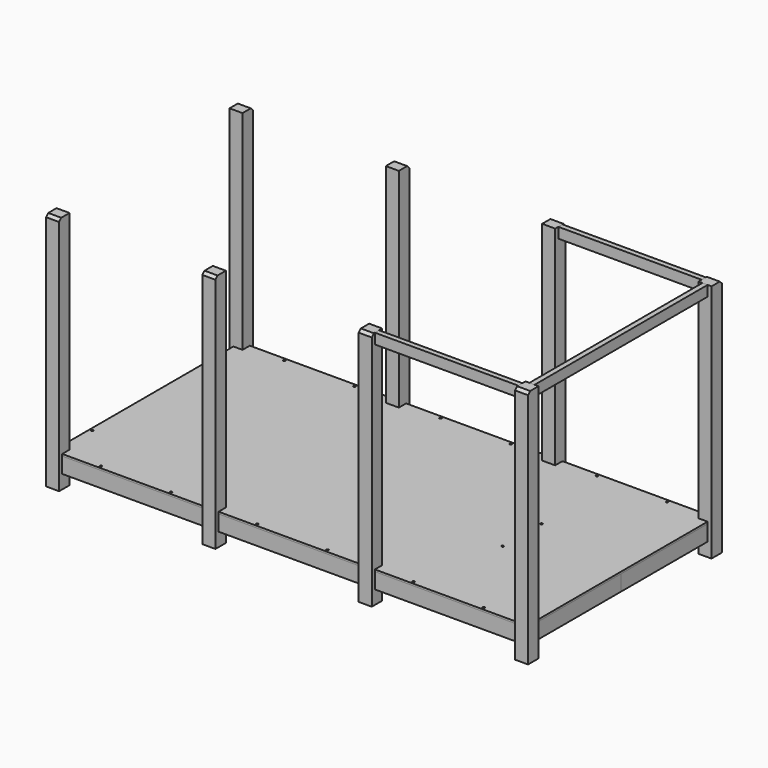
from build123d import *

# Parameters (mm, degrees)
F1_W           = 125
F1_H           = 2300
F2_DEPTH       = 62.5
F3_W           = 1375
F3_H           = 150
F4_W           = 1375
F4_H           = 150
F5_DEPTH       = 25
F7_W           = 50
F7_H           = 1037.5
F7_H_2         = 1075
F8_DEPTH       = 150
F10_W          = 1375
F10_H          = 87.5
F10_R          = 10.5
F11_DEPTH      = 19
F12_W          = 1375
F12_H          = 100
F13_DEPTH      = 25
F16_W          = 2075
F16_H          = 100
F17_DEPTH      = 25
F19_DEPTH      = 62.5
F19_DEPTH_BACK = 4562.501


with BuildPart() as f2:
    # F1 (on offset) → F2 (new body, symmetric)
    with BuildSketch(Plane.XZ.offset(1100)):
        with Locations((-2250, -198.653316)):
            Rectangle(F1_W, F1_H)
        with Locations((-750, -198.653316)):
            Rectangle(F1_W, F1_H)
        with Locations((750, -198.653316)):
            Rectangle(F1_W, F1_H)
        with Locations((2250, -198.653316)):
            Rectangle(F1_W, F1_H)
    extrude(amount=F2_DEPTH, both=True)


with BuildPart() as f5:
    # F3 (on offset) + F4 (on offset) → F5 (new body, symmetric)
    with BuildSketch(Plane.XZ.offset(1100)):
        with Locations((-1500, -1142.653316)):
            Rectangle(F3_W, F3_H)
    with BuildSketch(Plane.XZ.offset(1100)):
        with Locations((0, -1142.653316)):
            Rectangle(F4_W, F4_H)
        with Locations((1500, -1142.653316)):
            Rectangle(F4_W, F4_H)
    extrude(amount=F5_DEPTH, both=True)


with BuildPart() as f8:
    # F7 (on offset) → F8 (new body)
    with BuildSketch(Plane.XY.offset(-1067.653)):
        with Locations((-2250, -518.75)):
            Rectangle(F7_W, F7_H)
        with Locations((-1950, -537.5)):
            Rectangle(F7_W, F7_H_2)
        with Locations((-1650, -537.5)):
            Rectangle(F7_W, F7_H_2)
        with Locations((-1350, -537.5)):
            Rectangle(F7_W, F7_H_2)
        with Locations((-1050, -537.5)):
            Rectangle(F7_W, F7_H_2)
        with Locations((-750, -518.75)):
            Rectangle(F7_W, F7_H)
        with Locations((-450, -537.5)):
            Rectangle(F7_W, F7_H_2)
        with Locations((-150, -537.5)):
            Rectangle(F7_W, F7_H_2)
        with Locations((150, -537.5)):
            Rectangle(F7_W, F7_H_2)
        with Locations((450, -537.5)):
            Rectangle(F7_W, F7_H_2)
        with Locations((750, -518.75)):
            Rectangle(F7_W, F7_H)
        with Locations((1050, -537.5)):
            Rectangle(F7_W, F7_H_2)
        with Locations((1350, -537.5)):
            Rectangle(F7_W, F7_H_2)
        with Locations((1650, -537.5)):
            Rectangle(F7_W, F7_H_2)
        with Locations((1950, -537.5)):
            Rectangle(F7_W, F7_H_2)
        with Locations((2250, -518.75)):
            Rectangle(F7_W, F7_H)
    extrude(amount=-F8_DEPTH)


with BuildPart() as f9_1:
    # F9: instance of F2
    add(f2.part.mirror(Plane.XZ))


with BuildPart() as f9_2:
    # F9: instance of F5
    add(f5.part.mirror(Plane.XZ))


with BuildPart() as f9_3:
    # F9: instance of F8
    add(f8.part.mirror(Plane.XZ))


with BuildPart() as f11:
    # F10 (on offset) → F11 (new body)
    with BuildSketch(Plane.XY.offset(-1067.653)):
        with Locations((-1500, 1081.25)):
            Rectangle(F10_W, F10_H)
        with Locations((-1837.5, 1100)):
            Circle(F10_R, mode=Mode.SUBTRACT)
        with Locations((-1162.5, 1100)):
            Circle(F10_R, mode=Mode.SUBTRACT)
        with Locations((0, 1081.25)):
            Rectangle(F10_W, F10_H)
        with Locations((-337.5, 1100)):
            Circle(F10_R, mode=Mode.SUBTRACT)
        with Locations((337.5, 1100)):
            Circle(F10_R, mode=Mode.SUBTRACT)
        with Locations((1500, 1081.25)):
            Rectangle(F10_W, F10_H)
        with Locations((1162.5, 1100)):
            Circle(F10_R, mode=Mode.SUBTRACT)
        with Locations((1837.5, 1100)):
            Circle(F10_R, mode=Mode.SUBTRACT)
        Polygon((-2275, -1037.5), (-2187.5, -1037.5), (-812.5, -1037.5), (-687.5, -1037.5), (687.5, -1037.5), (812.5, -1037.5), (2187.5, -1037.5), (2275, -1037.5), (2275, 1037.5), (2187.5, 1037.5), (812.5, 1037.5), (687.5, 1037.5), (-687.5, 1037.5), (-812.5, 1037.5), (-2187.5, 1037.5), (-2275, 1037.5), align=None)
        with Locations((-2250, -687.5)):
            Circle(F10_R, mode=Mode.SUBTRACT)
        with Locations((1325, -232.5)):
            Circle(F10_R, mode=Mode.SUBTRACT)
        with Locations((-2250, 687.5)):
            Circle(F10_R, mode=Mode.SUBTRACT)
        with Locations((1325, 232.5)):
            Circle(F10_R, mode=Mode.SUBTRACT)
        with Locations((1500, -1081.25)):
            Rectangle(F10_W, F10_H)
        with Locations((1162.5, -1100)):
            Circle(F10_R, mode=Mode.SUBTRACT)
        with Locations((1837.5, -1100)):
            Circle(F10_R, mode=Mode.SUBTRACT)
        with Locations((0, -1081.25)):
            Rectangle(F10_W, F10_H)
        with Locations((-337.5, -1100)):
            Circle(F10_R, mode=Mode.SUBTRACT)
        with Locations((337.5, -1100)):
            Circle(F10_R, mode=Mode.SUBTRACT)
        with Locations((-1500, -1081.25)):
            Rectangle(F10_W, F10_H)
        with Locations((-1837.5, -1100)):
            Circle(F10_R, mode=Mode.SUBTRACT)
        with Locations((-1162.5, -1100)):
            Circle(F10_R, mode=Mode.SUBTRACT)
    extrude(amount=F11_DEPTH)


with BuildPart() as f13:
    # F12 (on offset) → F13 (new body, symmetric)
    with BuildSketch(Plane.XZ.offset(1100)):
        with Locations((1500, 901.346684)):
            Rectangle(F12_W, F12_H)
    extrude(amount=F13_DEPTH, both=True)


with BuildPart() as f14_1:
    # F14: instance of F13
    add(f13.part.mirror(Plane.XZ))


with BuildPart() as f17:
    # F16 (on offset) → F17 (new body, symmetric)
    with BuildSketch(Plane.YZ.offset(2250)):
        with Locations((0, 901.346684)):
            Rectangle(F16_W, F16_H)
    extrude(amount=F17_DEPTH, both=True)


with BuildPart() as f19_tool:
    # F18 (on offset) → F19 (new body, two sides)
    with BuildSketch(Plane.YZ.offset(2250)) as f19_sk:
        Polygon((-1137, 951.346684), (-1162.5, 951.346684), (-1162.5, 925.846684), align=None)
        Polygon((1162.5, 925.846684), (1162.5, 951.346684), (1137, 951.346684), align=None)
    extrude(amount=F19_DEPTH)
    extrude(f19_sk.sketch, amount=-F19_DEPTH_BACK)


with BuildPart() as f2_1:
    add(f2.part)

    # F19: cut by f19_tool
    add(f19_tool.part, mode=Mode.SUBTRACT)


with BuildPart() as f9_1_1:
    add(f9_1.part)

    # F19: cut by f19_tool
    add(f19_tool.part, mode=Mode.SUBTRACT)


solid = Compound([f5.part, f8.part, f9_2.part, f9_3.part, f11.part, f13.part, f14_1.part, f17.part, f2_1.part, f9_1_1.part])
